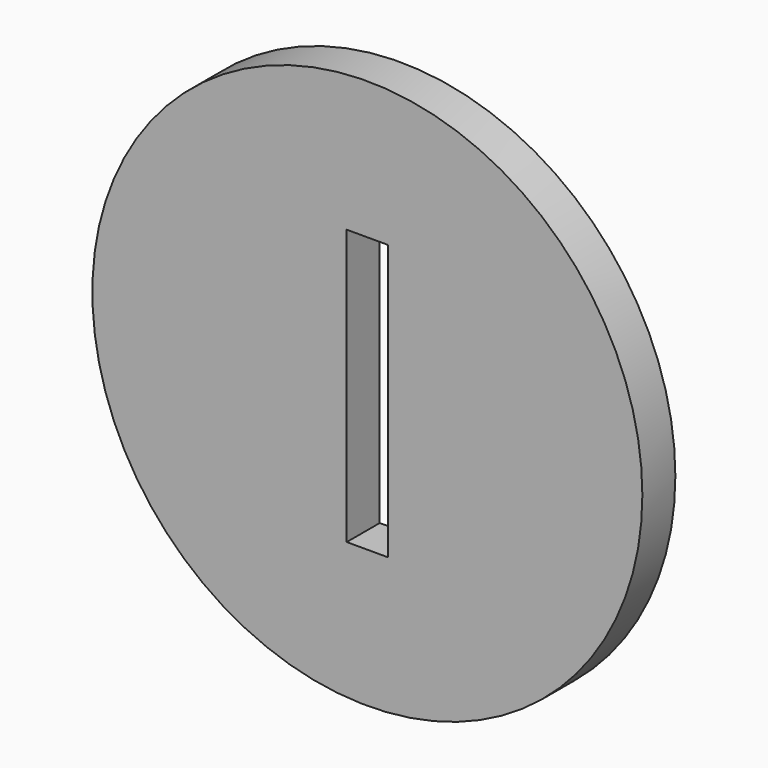
from build123d import *

# Parameters (mm, degrees)
F0_R     = 20
F0_W     = 3
F0_H     = 20
F1_DEPTH = 3


with BuildPart() as f1:
    # F0 (on Front) → F1 (new body)
    with BuildSketch(Plane.XZ):
        Circle(F0_R)
        Rectangle(F0_W, F0_H, mode=Mode.SUBTRACT)
    extrude(amount=F1_DEPTH)


solid = f1.part
